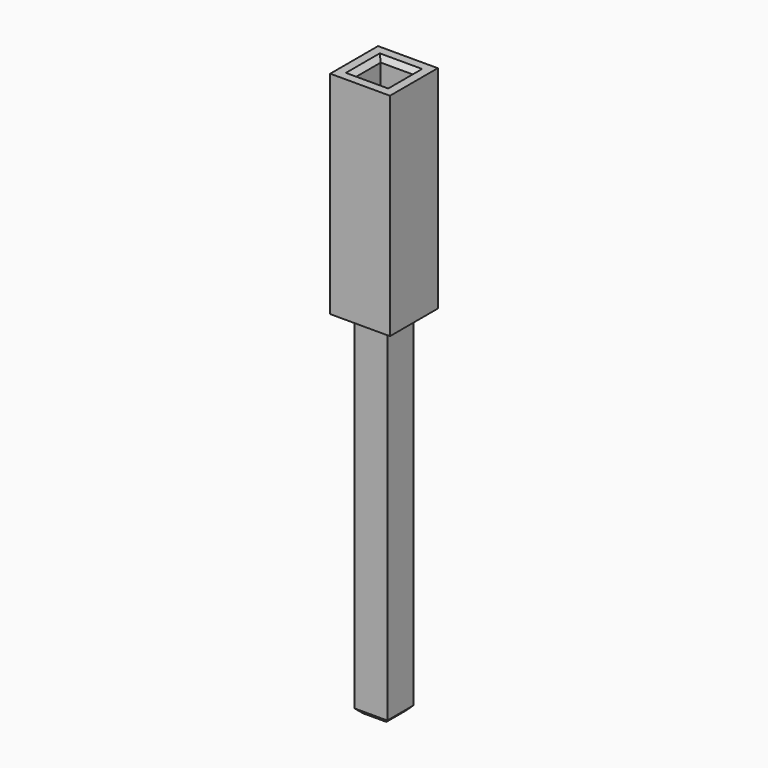
from build123d import *

# Parameters (mm, degrees)
F0_W     = 2.54
F0_H     = 2.54
F0_W_2   = 1.4
F0_H_2   = 1.4
F1_DEPTH = 9
F2_SIZE  = 0.2
F3_W     = 1.4
F3_H     = 1.4
F4_DEPTH = 15
F5_SIZE  = 0.2
F6_DEPTH = 0.5


with BuildPart() as f1:
    # F0 (on Top) → F1 (new body)
    with BuildSketch(Plane.XY):
        Rectangle(F0_W, F0_H)
        Rectangle(F0_W_2, F0_H_2, mode=Mode.SUBTRACT)
    extrude(amount=F1_DEPTH)

    # F2
    f2_edges = [f1.edges().sort_by_distance(p)[0] for p in [
        (0, -0.7, 9),
        (-0.7, 0, 9),
        (0, 0.7, 9),
        (0.7, 0, 9),
    ]]
    chamfer(f2_edges, length=F2_SIZE)

    # F3 (on face) → F4 (join)
    with BuildSketch(Plane(origin=(0, 0, 0), x_dir=(1, 0, 0), z_dir=(0, 0, -1))):
        Rectangle(F3_W, F3_H)
    extrude(amount=F4_DEPTH)

    # F5
    f5_edges = [f1.edges().sort_by_distance(p)[0] for p in [
        (-0.7, 0, -15),
        (0, 0.7, -15),
        (0.7, 0, -15),
        (0, -0.7, -15),
    ]]
    chamfer(f5_edges, length=F5_SIZE)

    # F6 (add): a face of the model
    f6_faces = [f1.faces().sort_by_distance(p)[0] for p in [
        (0, 0, 0),
    ]]
    extrude(f6_faces, amount=F6_DEPTH)


solid = f1.part
